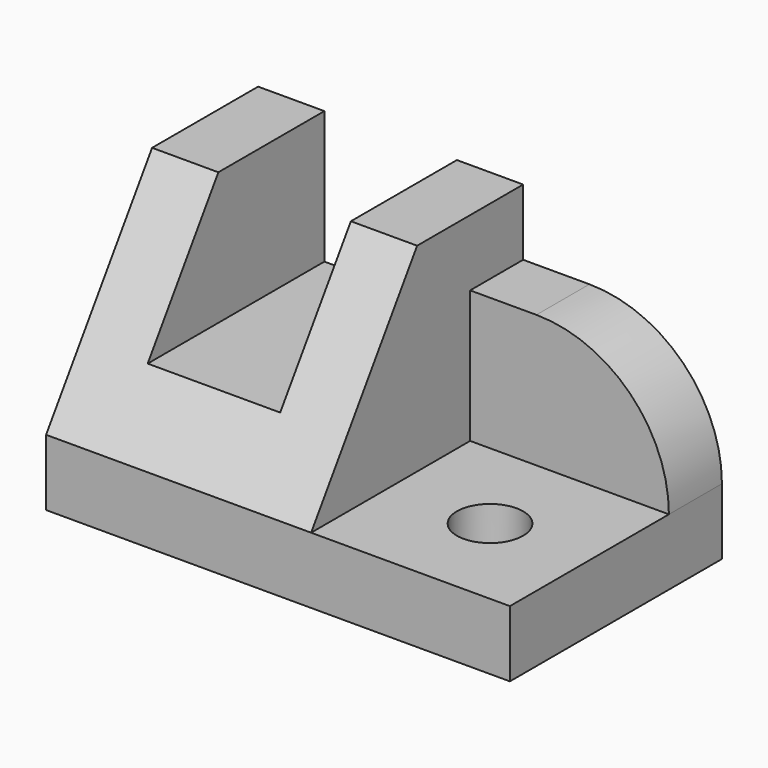
from build123d import *

# Parameters (mm, degrees)
SKETCH_W     = 70
SKETCH_H     = 40
SKETCH_R     = 5
PAD_DEPTH    = 10
PAD001_DEPTH = 40
POCKET_DEPTH = 40
PAD002_DEPTH = 10


with BuildPart() as part:
    # Sketch → Pad (new body)
    with BuildSketch(Plane.XY):
        Rectangle(SKETCH_W, SKETCH_H)
        with Locations((20, -5)):
            Circle(SKETCH_R, mode=Mode.SUBTRACT)
    extrude(amount=PAD_DEPTH)

    # Sketch001 (on Face2 of Pad) → Pad001 (join)
    with BuildSketch(Plane.XZ.offset(20)):
        Polygon((-35, 10), (-35, 40), (-25, 40), (-25, 20), (-5, 20), (-5, 40), (5, 40), (5, 10), align=None)
    extrude(amount=-PAD001_DEPTH)

    # Sketch002 (on Face12 of Pad001) → Pocket (cut)
    with BuildSketch(Plane.YZ.offset(5)):
        Polygon((0, 40), (-20, 10), (-20, 40), align=None)
    extrude(amount=-POCKET_DEPTH, mode=Mode.SUBTRACT)

    # Sketch003 (on Face2 of Pocket) → Pad002 (join)
    with BuildSketch(Plane(origin=(0, 20, 0), x_dir=(-1, 0, 0), z_dir=(0, 1, 0))):
        with BuildLine():
            Line((-5, 10), (-5, 30))
            Line((-5, 30), (-15, 30))
            ThreePointArc((-15, 30), (-29.142136, 24.142136), (-35, 10))
            Line((-35, 10), (-5, 10))
        make_face()
    extrude(amount=-PAD002_DEPTH)


solid = part.part
